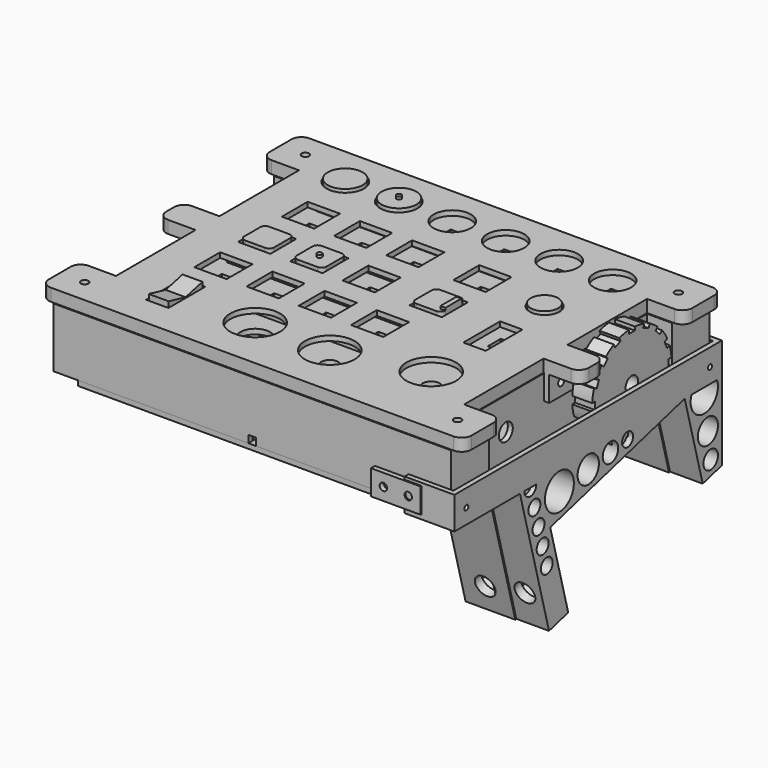
from build123d import *

# Parameters (mm, degrees)
PAD001_DEPTH            = 24
SKETCH004_W             = 136
SKETCH004_H             = 126
POCKET002_DEPTH         = 22
SKETCH005_R             = 3.5
POCKET003_DEPTH         = 150.0009999999
SKETCH006_W             = 3
SKETCH006_H             = 3
POCKET004_DEPTH         = 2
SKETCH002_R             = 3.5
SKETCH002_R_2           = 6
SKETCH002_W             = 6.5
SKETCH002_H             = 6.5
POCKET_DEPTH            = 2
SKETCH_W                = 118
SKETCH_H                = 3
SKETCH_W_2              = 79.5
SKETCH_W_3              = 73.5
SKETCH_W_4              = 3
SKETCH_H_2              = 41.25
SKETCH_H_3              = 20.0000000001
SKETCH_W_5              = 23
SKETCH_H_4              = 23
SKETCH_W_6              = 19
SKETCH_H_5              = 19
PAD_DEPTH               = 2
PAD003_DEPTH            = 5
SKETCH010_W             = 136
SKETCH010_H             = 126
POCKET006_DEPTH         = 3
SKETCH011_R             = 3.5
POCKET007_DEPTH         = 155.001
FILLET_R                = 4
SKETCH012_R             = 1.5
POCKET008_DEPTH         = 5.001
SKETCH008_R             = 10
SKETCH008_R_2           = 6
SKETCH008_R_3           = 7.5
SKETCH008_W             = 13
SKETCH008_H             = 13
SKETCH008_W_2           = 9
SKETCH008_H_2           = 18.5
POCKET009_DEPTH         = 5.001
SKETCH013_W             = 82
SKETCH013_H             = 2
SKETCH013_W_2           = 76
PAD004_DEPTH            = 3
SKETCH073_W             = 2
SKETCH073_H             = 12
PAD041_DEPTH            = 10
SKETCH074_R             = 1.5
POCKET026_DEPTH         = 157.251
SKETCH014_R             = 8.5
PAD005_DEPTH            = 6
SKETCH015_W             = 6.75
SKETCH015_H             = 6.75
POCKET010_DEPTH         = 3
SKETCH016_R             = 8.5
SKETCH016_R_2           = 7
POCKET011_DEPTH         = 5
BODY_PLACEMENT_ANGLE    = 180
SKETCH017_R             = 8.5
PAD006_DEPTH            = 6
SKETCH018_W             = 6.75
SKETCH018_H             = 6.75
POCKET012_DEPTH         = 3
SKETCH019_R             = 8.5
SKETCH019_R_2           = 7
POCKET013_DEPTH         = 5
SKETCH020_R             = 1
PAD007_DEPTH            = 1
BODY003_PLACEMENT_ANGLE = 180
SKETCH021_W             = 15
SKETCH021_H             = 15
PAD008_DEPTH            = 6
SKETCH022_W             = 6.75
SKETCH022_H             = 6.75
POCKET014_DEPTH         = 3
SKETCH023_W             = 15
SKETCH023_H             = 15
SKETCH023_W_2           = 12
SKETCH023_H_2           = 12
POCKET015_DEPTH         = 5
FILLET001_R             = 2
SKETCH027_R             = 1
PAD010_DEPTH            = 1
BODY004_PLACEMENT_ANGLE = 180
SKETCH024_W             = 15
SKETCH024_H             = 15
PAD009_DEPTH            = 6
SKETCH025_W             = 6.75
SKETCH025_H             = 6.75
POCKET016_DEPTH         = 3
SKETCH026_W             = 15
SKETCH026_H             = 15
SKETCH026_W_2           = 12
SKETCH026_H_2           = 12
POCKET017_DEPTH         = 5
FILLET002_R             = 2
BODY005_PLACEMENT_ANGLE = 180
SKETCH059_W             = 8
SKETCH059_H             = 20
PAD040_DEPTH            = 7
SKETCH060_W             = 6.75
SKETCH060_H             = 16.5
POCKET018_DEPTH         = 2.5
SKETCH061_W             = 10
SKETCH061_H             = 20
SKETCH061_W_2           = 8
SKETCH061_H_2           = 17
POCKET019_DEPTH         = 6
POCKET025_DEPTH         = 10
BODY014_PLACEMENT_ANGLE = 180
SKETCH075_R             = 7
PAD042_DEPTH            = 6
SKETCH076_W             = 6.75
SKETCH076_H             = 6.75
POCKET027_DEPTH         = 3
SKETCH077_R             = 7
SKETCH077_R_2           = 5.5
POCKET028_DEPTH         = 5
BODY015_PLACEMENT_ANGLE = 180
SKETCH078_W             = 140
SKETCH078_H             = 130
PAD043_DEPTH            = 2
SKETCH079_W             = 135.5
SKETCH079_H             = 125.5
SKETCH079_W_2           = 131.5
SKETCH079_H_2           = 121.5
PAD044_DEPTH            = 2
SKETCH080_W             = 3
SKETCH080_H             = 3
POCKET029_DEPTH         = 2
SKETCH089_W             = 18
SKETCH089_H             = 4
SKETCH089_W_2           = 2
SKETCH089_H_2           = 2
PAD047_DEPTH            = 10
SKETCH035_R             = 5.0568676201
SKETCH035_R_2           = 3.6582624879
SKETCH035_R_3           = 3
SKETCH035_R_4           = 7.2752079183
SKETCH035_R_5           = 5.3643607627
SKETCH035_R_6           = 3.8947516868
SKETCH035_R_7           = 2.7644933984
PAD026_DEPTH            = 20
POCKET030_DEPTH         = 18
POCKET031_DEPTH         = 6.5
SKETCH054_R             = 4.125
POCKET032_DEPTH         = 35.337896617
SKETCH055_R             = 1
POCKET033_DEPTH         = 2.001
SKETCH056_R             = 1
POCKET034_DEPTH         = 64.7539227097
SKETCH081_R             = 8.231454465
POCKET035_DEPTH         = 18
BODY013_PLACEMENT_ANGLE = 75
SKETCH082_R             = 20
SKETCH082_R_2           = 3.125
PAD045_DEPTH            = 8
SKETCH083_W             = 3
SKETCH083_H             = 3
POCKET036_DEPTH         = 8.001
SKETCH084_R             = 5.0568676201
SKETCH084_R_2           = 3.6582624879
SKETCH084_R_3           = 3
SKETCH084_R_4           = 8.1741874039
SKETCH084_R_5           = 6.0557548425
SKETCH084_R_6           = 4.426494381
SKETCH084_R_7           = 3.1734501729
PAD046_DEPTH            = 20
POCKET037_DEPTH         = 20.001
POCKET038_DEPTH         = 6.5
SKETCH087_R             = 4.125
POCKET039_DEPTH         = 34.8202585268
SKETCH088_R             = 1.5
POCKET040_DEPTH         = 137.001
BODY018_PLACEMENT_ANGLE = 75
SKETCH090_W             = 9
SKETCH090_H             = 9
PAD048_DEPTH            = 17.5
SKETCH091_W             = 4
SKETCH091_H             = 4
POCKET041_DEPTH         = 15.5
SKETCH096_W             = 9
SKETCH096_H             = 9
SKETCH096_W_2           = 6
SKETCH096_H_2           = 6
POCKET044_DEPTH         = 16.5
FILLET005_R             = 2
SKETCH092_W             = 15
SKETCH092_H             = 15
PAD049_DEPTH            = 6
SKETCH093_W             = 6.75
SKETCH093_H             = 6.75
POCKET042_DEPTH         = 3
SKETCH094_W             = 15
SKETCH094_H             = 15
SKETCH094_W_2           = 12
SKETCH094_H_2           = 12
POCKET043_DEPTH         = 5
FILLET004_R             = 2
SKETCH095_W             = 2
SKETCH095_H             = 8
PAD050_DEPTH            = 1
BODY020_PLACEMENT_ANGLE = 180


with BuildPart() as panel:
    # Sketch003 → Pad001 (new body)
    with BuildSketch(Plane.XY):
        Polygon((-80, -65), (80, -65), (80, -46), (69.9999999999, -46), (69.9999999999, 46), (80, 46), (80, 65), (-80, 65), (-80, 46), (-70, 46), (-70, -46), (-80, -46), align=None)
    extrude(amount=PAD001_DEPTH)

    # Sketch004 (on Face13 of Pad001) → Pocket002 (cut)
    with BuildSketch(Plane(origin=(0, 0, 0), x_dir=(1, 0, 0), z_dir=(0, 0, -1))):
        Rectangle(SKETCH004_W, SKETCH004_H)
    extrude(amount=-POCKET002_DEPTH, mode=Mode.SUBTRACT)

    # Sketch005 (on Face8 of Pocket002) → Pocket003 (cut, through all)
    with BuildSketch(Plane.YZ.offset(69.9999999999)):
        with Locations((-25, 11)):
            Circle(SKETCH005_R)
        with Locations((25, 11)):
            Circle(SKETCH005_R)
    extrude(amount=-POCKET003_DEPTH, mode=Mode.SUBTRACT)

    # Sketch006 (on Face14 of Pocket003) → Pocket004 (cut)
    with BuildSketch(Plane.XZ.offset(65)):
        with Locations((0, 1.5)):
            Rectangle(SKETCH006_W, SKETCH006_H)
    extrude(amount=-POCKET004_DEPTH, mode=Mode.SUBTRACT)

    # Sketch002 (on Face5 of Pocket004) → Pocket (cut)
    with BuildSketch(Plane.XY.offset(24)):
        with Locations((48, -35)):
            Circle(SKETCH002_R)
        with Locations((-16, -43.5)):
            Circle(SKETCH002_R_2)
        with Locations((14, -43.5)):
            Circle(SKETCH002_R)
        with Locations((-53.75, 49)):
            Rectangle(SKETCH002_W, SKETCH002_H)
        with Locations((-32.25, 49)):
            Rectangle(SKETCH002_W, SKETCH002_H)
        with Locations((-10.75, 49)):
            Rectangle(SKETCH002_W, SKETCH002_H)
        with Locations((10.75, 49)):
            Rectangle(SKETCH002_W, SKETCH002_H)
        with Locations((32.25, 49)):
            Rectangle(SKETCH002_W, SKETCH002_H)
        with Locations((53.75, 49)):
            Rectangle(SKETCH002_W, SKETCH002_H)
        with Locations((-48, 24.5)):
            Rectangle(SKETCH002_W, SKETCH002_H)
        with Locations((-27, 24.5)):
            Rectangle(SKETCH002_W, SKETCH002_H)
        with Locations((-6, 24.5)):
            Rectangle(SKETCH002_W, SKETCH002_H)
        with Locations((21, 24.5)):
            Rectangle(SKETCH002_W, SKETCH002_H)
        with Locations((-48, 2.5)):
            Rectangle(SKETCH002_W, SKETCH002_H)
        with Locations((-27, 2.5)):
            Rectangle(SKETCH002_W, SKETCH002_H)
        with Locations((-6, 2.5)):
            Rectangle(SKETCH002_W, SKETCH002_H)
        with Locations((21, 2.5)):
            Rectangle(SKETCH002_W, SKETCH002_H)
        with Locations((-48, -19.5)):
            Rectangle(SKETCH002_W, SKETCH002_H)
        with Locations((-27, -19.5)):
            Rectangle(SKETCH002_W, SKETCH002_H)
        with Locations((-6, -19.5)):
            Rectangle(SKETCH002_W, SKETCH002_H)
        with Locations((15, -19.5)):
            Rectangle(SKETCH002_W, SKETCH002_H)
        with Locations((48, 22)):
            Rectangle(SKETCH002_W, SKETCH002_H)
        with Locations((-48, -38.75)):
            Rectangle(SKETCH002_W, SKETCH002_H)
        with Locations((-48, -48.25)):
            Rectangle(SKETCH002_W, SKETCH002_H)
        with Locations((48, 0.75)):
            Rectangle(SKETCH002_W, SKETCH002_H)
        with Locations((48, -8.75)):
            Rectangle(SKETCH002_W, SKETCH002_H)
    extrude(amount=-POCKET_DEPTH, mode=Mode.SUBTRACT)

    # Sketch (on Face119 of Pocket) → Pad (join)
    with BuildSketch(Plane(origin=(0, 0, 22), x_dir=(1, 0, 0), z_dir=(0, 0, -1))):
        with Locations((0, -49)):
            Rectangle(SKETCH_W, SKETCH_H)
        with Locations((-13.5, -24.5)):
            Rectangle(SKETCH_W_2, SKETCH_H)
        with Locations((-16.5, 19.5)):
            Rectangle(SKETCH_W_3, SKETCH_H)
        with Locations((-13.5, -2.5)):
            Rectangle(SKETCH_W_2, SKETCH_H)
        with Locations((48, -6.625)):
            Rectangle(SKETCH_W_4, SKETCH_H_2)
        with Locations((-48, 43.5)):
            Rectangle(SKETCH_W_4, SKETCH_H_3)
        with Locations((-17.5, 45)):
            Rectangle(SKETCH_W_5, SKETCH_H_4)
        with Locations((-17.5, 45)):
            Rectangle(SKETCH_W_6, SKETCH_H_5, mode=Mode.SUBTRACT)
    extrude(amount=PAD_DEPTH)


with BuildPart() as cover:
    # Sketch009 → Pad003 (new body)
    with BuildSketch(Plane.XY):
        Polygon((-85, -65), (85, -65), (85, -46), (70, -46), (70, -6), (85, -6), (85, 6), (70, 6), (70, 46), (85, 46), (85, 65), (-85, 65), (-85, 46), (-70, 46), (-70, 6), (-85, 6), (-85, -6), (-70, -6), (-70, -46), (-85, -46), align=None)
    extrude(amount=PAD003_DEPTH)

    # Sketch010 (on Face21 of Pad003) → Pocket006 (cut)
    with BuildSketch(Plane(origin=(0, 0, 0), x_dir=(1, 0, 0), z_dir=(0, 0, -1))):
        Rectangle(SKETCH010_W, SKETCH010_H)
    extrude(amount=-POCKET006_DEPTH, mode=Mode.SUBTRACT)

    # Sketch011 (on Face8 of Pocket006) → Pocket007 (cut, through all)
    with BuildSketch(Plane.YZ.offset(70)):
        with Locations((-25, -13)):
            Circle(SKETCH011_R)
        with Locations((25, -13)):
            Circle(SKETCH011_R)
    extrude(amount=-POCKET007_DEPTH, mode=Mode.SUBTRACT)

    # Fillet
    fillet_edges = [cover.edges().sort_by_distance(p)[0] for p in [
        (-85, -65, 2.5),
        (85, -65, 2.5),
        (85, 65, 2.5),
        (-85, 65, 2.5),
        (85, -6, 2.5),
        (85, 6, 2.5),
        (85, -46, 2.5),
        (85, 46, 2.5),
        (-85, 46, 2.5),
        (-85, 6, 2.5),
        (-85, -6, 2.5),
        (-85, -46, 2.5),
    ]]
    fillet(fillet_edges, radius=FILLET_R)

    # Sketch012 (on Face5 of Fillet) → Pocket008 (cut, through all)
    with BuildSketch(Plane.XY.offset(5)):
        with Locations((-75, 55.5)):
            Circle(SKETCH012_R)
        with Locations((74.9999999999, 55.5)):
            Circle(SKETCH012_R)
        with Locations((-75, -55.5)):
            Circle(SKETCH012_R)
        with Locations((75, -55.5)):
            Circle(SKETCH012_R)
    extrude(amount=-POCKET008_DEPTH, mode=Mode.SUBTRACT)

    # Sketch008 (on Face5 of Pocket008) → Pocket009 (cut, through all)
    with BuildSketch(Plane.XY.offset(5)):
        with Locations((48, -35)):
            Circle(SKETCH008_R)
        with Locations((-16, -43.5)):
            Circle(SKETCH008_R)
        with Locations((14, -43.5)):
            Circle(SKETCH008_R)
        with Locations((48, 22)):
            Circle(SKETCH008_R_2)
        with Locations((-53.75, 49)):
            Circle(SKETCH008_R_3)
        with Locations((-32.25, 49)):
            Circle(SKETCH008_R_3)
        with Locations((-10.75, 49)):
            Circle(SKETCH008_R_3)
        with Locations((10.75, 49)):
            Circle(SKETCH008_R_3)
        with Locations((32.25, 49)):
            Circle(SKETCH008_R_3)
        with Locations((53.75, 49)):
            Circle(SKETCH008_R_3)
        with Locations((-48, 24.5)):
            Rectangle(SKETCH008_W, SKETCH008_H)
        with Locations((-27, 24.5)):
            Rectangle(SKETCH008_W, SKETCH008_H)
        with Locations((-6, 24.5)):
            Rectangle(SKETCH008_W, SKETCH008_H)
        with Locations((21, 24.5)):
            Rectangle(SKETCH008_W, SKETCH008_H)
        with Locations((-48, 2.5)):
            Rectangle(SKETCH008_W, SKETCH008_H)
        with Locations((-27, 2.5)):
            Rectangle(SKETCH008_W, SKETCH008_H)
        with Locations((-6, 2.5)):
            Rectangle(SKETCH008_W, SKETCH008_H)
        with Locations((21, 2.5)):
            Rectangle(SKETCH008_W, SKETCH008_H)
        with Locations((-48, -19.5)):
            Rectangle(SKETCH008_W, SKETCH008_H)
        with Locations((-27, -19.5)):
            Rectangle(SKETCH008_W, SKETCH008_H)
        with Locations((-6, -19.5)):
            Rectangle(SKETCH008_W, SKETCH008_H)
        with Locations((15, -19.5)):
            Rectangle(SKETCH008_W, SKETCH008_H)
        with Locations((48, -4)):
            Rectangle(SKETCH008_W_2, SKETCH008_H_2)
        with Locations((-48, -43.5)):
            Rectangle(SKETCH008_W_2, SKETCH008_H_2)
    extrude(amount=-POCKET009_DEPTH, mode=Mode.SUBTRACT)

    # Sketch013 (on Face109 of Pocket009) → Pad004 (join)
    with BuildSketch(Plane(origin=(0, 0, 3), x_dir=(1, 0, 0), z_dir=(0, 0, -1))):
        with Locations((-13.5, 8.5)):
            Rectangle(SKETCH013_W, SKETCH013_H)
        with Locations((-13.5, -13.5)):
            Rectangle(SKETCH013_W, SKETCH013_H)
        with Locations((-13.5, -36.25)):
            Rectangle(SKETCH013_W, SKETCH013_H)
        with Locations((-16.5, 30.125)):
            Rectangle(SKETCH013_W_2, SKETCH013_H)
    extrude(amount=PAD004_DEPTH)

    # Sketch073 (on Face2 of Pad004) → Pad041 (join)
    with BuildSketch(Plane(origin=(0, 0, 0), x_dir=(1, 0, 0), z_dir=(0, 0, -1))):
        with Locations((-71.25, 0)):
            Rectangle(SKETCH073_W, SKETCH073_H)
        with Locations((71.25, 0)):
            Rectangle(SKETCH073_W, SKETCH073_H)
    extrude(amount=PAD041_DEPTH)

    # Sketch074 (on Face120 of Pad041) → Pocket026 (cut, through all)
    with BuildSketch(Plane.YZ.offset(72.25)):
        with Locations((0, -5)):
            Circle(SKETCH074_R)
    extrude(amount=-POCKET026_DEPTH, mode=Mode.SUBTRACT)


with BuildPart() as cover_1:
    # Body002 placement: moved
    add(cover.part.moved(Location((0, 0, 24.28))))


with BuildPart() as button_round:
    # Sketch014 → Pad005 (new body)
    with BuildSketch(Plane.XY):
        Circle(SKETCH014_R)
    extrude(amount=PAD005_DEPTH)

    # Sketch015 (on Face3 of Pad005) → Pocket010 (cut)
    with BuildSketch(Plane.XY.offset(6)):
        Rectangle(SKETCH015_W, SKETCH015_H)
    extrude(amount=-POCKET010_DEPTH, mode=Mode.SUBTRACT)

    # Sketch016 (on Face2 of Pocket010) → Pocket011 (cut)
    with BuildSketch(Plane(origin=(0, 0, 0), x_dir=(1, 0, 0), z_dir=(0, 0, -1))):
        Circle(SKETCH016_R)
        Circle(SKETCH016_R_2, mode=Mode.SUBTRACT)
    extrude(amount=-POCKET011_DEPTH, mode=Mode.SUBTRACT)


with BuildPart() as button_round_1:
    # Body placement: moved
    add(button_round.part.moved(Location((-53.82, 49.02, 30.34))).rotate(Axis((-53.82, 49.02, 30.34), (0, 1, 0)), BODY_PLACEMENT_ANGLE))


with BuildPart() as button_round_guide:
    # Sketch017 → Pad006 (new body)
    with BuildSketch(Plane.XY):
        Circle(SKETCH017_R)
    extrude(amount=PAD006_DEPTH)

    # Sketch018 (on Face3 of Pad006) → Pocket012 (cut)
    with BuildSketch(Plane.XY.offset(6)):
        Rectangle(SKETCH018_W, SKETCH018_H)
    extrude(amount=-POCKET012_DEPTH, mode=Mode.SUBTRACT)

    # Sketch019 (on Face2 of Pocket012) → Pocket013 (cut)
    with BuildSketch(Plane(origin=(0, 0, 0), x_dir=(1, 0, 0), z_dir=(0, 0, -1))):
        Circle(SKETCH019_R)
        Circle(SKETCH019_R_2, mode=Mode.SUBTRACT)
    extrude(amount=-POCKET013_DEPTH, mode=Mode.SUBTRACT)

    # Sketch020 (on Face9 of Pocket013) → Pad007 (join)
    with BuildSketch(Plane(origin=(0, 0, 0), x_dir=(1, 0, 0), z_dir=(0, 0, -1))):
        Circle(SKETCH020_R)
    extrude(amount=PAD007_DEPTH)


with BuildPart() as button_round_guide_1:
    # Body003 placement: moved
    add(button_round_guide.part.moved(Location((-32.1, 48.92, 30.58))).rotate(Axis((-32.1, 48.92, 30.58), (1, 0, 0)), BODY003_PLACEMENT_ANGLE))


with BuildPart() as button_square_guide:
    # Sketch021 → Pad008 (new body)
    with BuildSketch(Plane.XY):
        Rectangle(SKETCH021_W, SKETCH021_H)
    extrude(amount=PAD008_DEPTH)

    # Sketch022 (on Face6 of Pad008) → Pocket014 (cut)
    with BuildSketch(Plane.XY.offset(6)):
        Rectangle(SKETCH022_W, SKETCH022_H)
    extrude(amount=-POCKET014_DEPTH, mode=Mode.SUBTRACT)

    # Sketch023 (on Face4 of Pocket014) → Pocket015 (cut)
    with BuildSketch(Plane(origin=(0, 0, 0), x_dir=(1, 0, 0), z_dir=(0, 0, -1))):
        Rectangle(SKETCH023_W, SKETCH023_H)
        Rectangle(SKETCH023_W_2, SKETCH023_H_2, mode=Mode.SUBTRACT)
    extrude(amount=-POCKET015_DEPTH, mode=Mode.SUBTRACT)

    # Fillet001
    fillet001_edges = [button_square_guide.edges().sort_by_distance(p)[0] for p in [
        (-6, 6, 2.5),
        (-6, -6, 2.5),
        (6, 6, 2.5),
        (6, -6, 2.5),
    ]]
    fillet(fillet001_edges, radius=FILLET001_R)

    # Sketch027 (on Face14 of Fillet001) → Pad010 (join)
    with BuildSketch(Plane(origin=(0, 0, 0), x_dir=(1, 0, 0), z_dir=(0, 0, -1))):
        Circle(SKETCH027_R)
    extrude(amount=PAD010_DEPTH)


with BuildPart() as button_square_guide_1:
    # Body004 placement: moved
    add(button_square_guide.part.moved(Location((-26.92, 2.51, 30.46))).rotate(Axis((-26.92, 2.51, 30.46), (1, 0, 0)), BODY004_PLACEMENT_ANGLE))


with BuildPart() as button_square:
    # Sketch024 → Pad009 (new body)
    with BuildSketch(Plane.XY):
        Rectangle(SKETCH024_W, SKETCH024_H)
    extrude(amount=PAD009_DEPTH)

    # Sketch025 (on Face6 of Pad009) → Pocket016 (cut)
    with BuildSketch(Plane.XY.offset(6)):
        Rectangle(SKETCH025_W, SKETCH025_H)
    extrude(amount=-POCKET016_DEPTH, mode=Mode.SUBTRACT)

    # Sketch026 (on Face4 of Pocket016) → Pocket017 (cut)
    with BuildSketch(Plane(origin=(0, 0, 0), x_dir=(1, 0, 0), z_dir=(0, 0, -1))):
        Rectangle(SKETCH026_W, SKETCH026_H)
        Rectangle(SKETCH026_W_2, SKETCH026_H_2, mode=Mode.SUBTRACT)
    extrude(amount=-POCKET017_DEPTH, mode=Mode.SUBTRACT)

    # Fillet002
    fillet002_edges = [button_square.edges().sort_by_distance(p)[0] for p in [
        (-6, 6, 2.5),
        (-6, -6, 2.5),
        (6, 6, 2.5),
        (6, -6, 2.5),
    ]]
    fillet(fillet002_edges, radius=FILLET002_R)


with BuildPart() as button_square_1:
    # Body005 placement: moved
    add(button_square.part.moved(Location((-47.97, 2.48, 30.42))).rotate(Axis((-47.97, 2.48, 30.42), (1, 0, 0)), BODY005_PLACEMENT_ANGLE))


with BuildPart() as button_rocker:
    # Sketch059 → Pad040 (new body)
    with BuildSketch(Plane.XY):
        Rectangle(SKETCH059_W, SKETCH059_H)
    extrude(amount=PAD040_DEPTH)

    # Sketch060 (on Face6 of Pad040) → Pocket018 (cut)
    with BuildSketch(Plane.XY.offset(7)):
        Rectangle(SKETCH060_W, SKETCH060_H)
    extrude(amount=-POCKET018_DEPTH, mode=Mode.SUBTRACT)

    # Sketch061 (on Face4 of Pocket018) → Pocket019 (cut)
    with BuildSketch(Plane(origin=(0, 0, 0), x_dir=(1, 0, 0), z_dir=(0, 0, -1))):
        Rectangle(SKETCH061_W, SKETCH061_H)
        Rectangle(SKETCH061_W_2, SKETCH061_H_2, mode=Mode.SUBTRACT)
    extrude(amount=-POCKET019_DEPTH, mode=Mode.SUBTRACT)

    # Sketch072 (on Face14 of Pocket019) → Pocket025 (cut)
    with BuildSketch(Plane(origin=(-4, 0, 0), x_dir=(0, -1, 0), z_dir=(-1, 0, 0))):
        Polygon((-8.5, 0), (0, 2), (8.5, 0), align=None)
    extrude(amount=-POCKET025_DEPTH, mode=Mode.SUBTRACT)


with BuildPart() as button_rocker_1:
    # Body014 placement: moved
    add(button_rocker.part.moved(Location((-47.96, -43.57, 31.22))).rotate(Axis((-47.96, -43.57, 31.22), (0, 1, 0)), BODY014_PLACEMENT_ANGLE))


with BuildPart() as button_round_small:
    # Sketch075 → Pad042 (new body)
    with BuildSketch(Plane.XY):
        Circle(SKETCH075_R)
    extrude(amount=PAD042_DEPTH)

    # Sketch076 (on Face3 of Pad042) → Pocket027 (cut)
    with BuildSketch(Plane.XY.offset(6)):
        Rectangle(SKETCH076_W, SKETCH076_H)
    extrude(amount=-POCKET027_DEPTH, mode=Mode.SUBTRACT)

    # Sketch077 (on Face2 of Pocket027) → Pocket028 (cut)
    with BuildSketch(Plane(origin=(0, 0, 0), x_dir=(1, 0, 0), z_dir=(0, 0, -1))):
        Circle(SKETCH077_R)
        Circle(SKETCH077_R_2, mode=Mode.SUBTRACT)
    extrude(amount=-POCKET028_DEPTH, mode=Mode.SUBTRACT)


with BuildPart() as button_round_small_1:
    # Body015 placement: moved
    add(button_round_small.part.moved(Location((47.93, 21.99, 30.34))).rotate(Axis((47.93, 21.99, 30.34), (0, 1, 0)), BODY015_PLACEMENT_ANGLE))


with BuildPart() as cap:
    # Sketch078 → Pad043 (new body)
    with BuildSketch(Plane.XY):
        Rectangle(SKETCH078_W, SKETCH078_H)
    extrude(amount=PAD043_DEPTH)

    # Sketch079 (on Face6 of Pad043) → Pad044 (join)
    with BuildSketch(Plane.XY.offset(2)):
        Rectangle(SKETCH079_W, SKETCH079_H)
        Rectangle(SKETCH079_W_2, SKETCH079_H_2, mode=Mode.SUBTRACT)
    extrude(amount=PAD044_DEPTH)

    # Sketch080 (on Face8 of Pad044) → Pocket029 (cut)
    with BuildSketch(Plane.XZ.offset(62.75)):
        with Locations((0, 3.5)):
            Rectangle(SKETCH080_W, SKETCH080_H)
    extrude(amount=-POCKET029_DEPTH, mode=Mode.SUBTRACT)

    # Sketch089 (on Face16 of Pocket029) → Pad047 (join)
    with BuildSketch(Plane.XY.offset(2)):
        with Locations((-16, -37)):
            Rectangle(SKETCH089_W, SKETCH089_H)
        with Locations((-23, -37)):
            Rectangle(SKETCH089_W_2, SKETCH089_H_2, mode=Mode.SUBTRACT)
        with Locations((-9, -37)):
            Rectangle(SKETCH089_W_2, SKETCH089_H_2, mode=Mode.SUBTRACT)
        with Locations((-16, -51)):
            Rectangle(SKETCH089_W, SKETCH089_H)
        with Locations((-23, -51)):
            Rectangle(SKETCH089_W_2, SKETCH089_H_2, mode=Mode.SUBTRACT)
        with Locations((-9, -51)):
            Rectangle(SKETCH089_W_2, SKETCH089_H_2, mode=Mode.SUBTRACT)
    extrude(amount=PAD047_DEPTH)


with BuildPart() as cap_1:
    # Body016 placement: moved
    add(cap.part.moved(Location((0, 0, -1.98))))


with BuildPart() as mount:
    # Sketch035 → Pad026 (new body)
    with BuildSketch(Plane.YZ):
        Polygon((-42.712480308, 133.2816712222), (0, 121.836896617), (0, 111.836896617), (-35, 111.836896617), (-35, 41.836896617), (0, 41.836896617), (0, 31.836896617), (-56.4359353945, 31.836896617), (-64.9666061325, 0), (-77.5236418743, 3.3646475863), align=None)
        with Locations((-16.2817231725, 118.893764237)):
            Circle(SKETCH035_R, mode=Mode.SUBTRACT)
        with Locations((-5.6582624879, 117.4951591049)):
            Circle(SKETCH035_R_2, mode=Mode.SUBTRACT)
        with Locations((-47, 36.836896617)):
            Circle(SKETCH035_R_3, mode=Mode.SUBTRACT)
        with Locations((-39, 36.836896617)):
            Circle(SKETCH035_R_3, mode=Mode.SUBTRACT)
        with Locations((-31, 36.836896617)):
            Circle(SKETCH035_R_3, mode=Mode.SUBTRACT)
        with Locations((-23, 36.836896617)):
            Circle(SKETCH035_R_3, mode=Mode.SUBTRACT)
        with Locations((-44.2752079183, 49.1121045353)):
            Circle(SKETCH035_R_4, mode=Mode.SUBTRACT)
        with Locations((-42.3643607627, 63.6264296768)):
            Circle(SKETCH035_R_5, mode=Mode.SUBTRACT)
        with Locations((-40.8947516868, 74.7892188584)):
            Circle(SKETCH035_R_6, mode=Mode.SUBTRACT)
        with Locations((-39.7644933984, 83.3743829016)):
            Circle(SKETCH035_R_7, mode=Mode.SUBTRACT)
        with BuildLine():
            ThreePointArc((-34.116125398, 115.1355615391), (-23.4536716937, 118.9328065805), (-30.7890049476, 127.552544103))
            Line((-30.7890049476, 127.552544103), (-34.116125398, 115.1355615391))
        make_face(mode=Mode.SUBTRACT)
        with BuildLine():
            ThreePointArc((-55.8658306273, 33.9645565736), (-52.1022225211, 36.0604394816), (-54.313661297, 39.7573313765))
            Line((-54.313661297, 39.7573313765), (-55.8658306273, 33.9645565736))
        make_face(mode=Mode.SUBTRACT)
    extrude(amount=PAD026_DEPTH)

    # Sketch036 (on Face25 of Pad026) → Pocket030 (cut)
    with BuildSketch(Plane(origin=(0, 0, 0), x_dir=(0, 1, 0), z_dir=(-1, 0, 0))):
        Polygon((-77.0060037841, -5.2964992389), (-43.2301183982, -131.3498195696), (-32.604934309, -128.5028100735), (-66.3808196949, -2.4494897428), align=None)
    extrude(amount=-POCKET030_DEPTH, mode=Mode.SUBTRACT)

    # Sketch053 (on Face12 of Pocket030) → Pocket031 (cut)
    with BuildSketch(Plane(origin=(0, 0, 41.836896617), x_dir=(0, -1, 0), z_dir=(0, 0, 1))):
        Polygon((20.5, 13), (16.75, 19.4951905284), (9.25, 19.4951905284), (5.5, 13), (9.25, 6.5048094716), (16.75, 6.5048094716), align=None)
    extrude(amount=-POCKET031_DEPTH, mode=Mode.SUBTRACT)

    # Sketch054 (on Face37 of Pocket031) → Pocket032 (cut, through all)
    with BuildSketch(Plane(origin=(0, 0, 35.336896617), x_dir=(0, -1, 0), z_dir=(0, 0, 1))):
        with Locations((13, 13)):
            Circle(SKETCH054_R)
    extrude(amount=-POCKET032_DEPTH, mode=Mode.SUBTRACT)

    # Sketch055 (on Face7 of Pocket032) → Pocket033 (cut, through all)
    with BuildSketch(Plane(origin=(18, 0, 0), x_dir=(0, 1, 0), z_dir=(-1, 0, 0))):
        with Locations((-37.5039137946, -125.6743829488)):
            Circle(SKETCH055_R)
        with Locations((-69.2092468196, -7.3484692283)):
            Circle(SKETCH055_R)
    extrude(amount=-POCKET033_DEPTH, mode=Mode.SUBTRACT)

    # Sketch056 (on Face16 of Pocket033) → Pocket034 (cut, through all)
    with BuildSketch(Plane(origin=(0, -62.546520373, 16.7592896233), x_dir=(0, -0.2588190451, -0.9659258263), z_dir=(0, -0.9659258263, 0.2588190451))):
        with Locations((10.8145949628, 4)):
            Circle(SKETCH056_R)
    extrude(amount=-POCKET034_DEPTH, mode=Mode.SUBTRACT)

    # Sketch081 (on Face4 of Pocket034) → Pocket035 (cut)
    with BuildSketch(Plane(origin=(0, 0, 0), x_dir=(0, 1, 0), z_dir=(-1, 0, 0))):
        with Locations((-45.231454465, -90.216209691)):
            Circle(SKETCH081_R)
        with Locations((-58.1724067201, -41.9199183766)):
            Circle(SKETCH081_R)
    extrude(amount=-POCKET035_DEPTH, mode=Mode.SUBTRACT)


with BuildPart() as mount_1:
    # Body013 placement: moved
    add(mount.part.moved(Location((63.14, -50.4653290291, -65.5447722247))).rotate(Axis((63.14, -50.4653290291, -65.5447722247), (-1, 0, 0)), BODY013_PLACEMENT_ANGLE))


with BuildPart() as button_rotary:
    # Sketch082 → Pad045 (new body)
    with BuildSketch(Plane.YZ):
        Circle(SKETCH082_R)
        Circle(SKETCH082_R_2, mode=Mode.SUBTRACT)
    extrude(amount=PAD045_DEPTH)

    # Sketch083 (on Face3 of Pad045) → Pocket036 (cut, through all)
    with BuildSketch(Plane(origin=(0, 0, 0), x_dir=(0, 1, 0), z_dir=(-1, 0, 0))):
        with Locations((0, 20)):
            Rectangle(SKETCH083_W, SKETCH083_H)
        with Locations((0, -20)):
            Rectangle(SKETCH083_W, SKETCH083_H)
        with Locations((-20, 0)):
            Rectangle(SKETCH083_W, SKETCH083_H)
        with Locations((20, 0)):
            Rectangle(SKETCH083_W, SKETCH083_H)
        Polygon((-17.6657965, -5.6938242), (-16.5177462029, -8.4654627975), (-19.2893848004, -9.6135130946), (-20.4374350975, -6.8418744971), align=None)
        Polygon((17.6657965, 5.6938242), (16.5177462029, 8.4654627975), (19.2893848004, 9.6135130946), (20.4374350975, 6.8418744971), align=None)
        Polygon((-8.4654627975, -16.5177462029), (-5.6938242, -17.6657965), (-6.8418744971, -20.4374350975), (-9.6135130946, -19.2893848004), align=None)
        Polygon((8.4654627975, 16.5177462029), (5.6938242, 17.6657965), (6.8418744971, 20.4374350975), (9.6135130946, 19.2893848004), align=None)
        Polygon((-16.5177462029, 8.4654627975), (-17.6657965, 5.6938242), (-20.4374350975, 6.8418744971), (-19.2893848004, 9.6135130946), align=None)
        Polygon((16.5177462029, -8.4654627975), (17.6657965, -5.6938242), (20.4374350975, -6.8418744971), (19.2893848004, -9.6135130946), align=None)
        Polygon((-5.6938242, 17.6657965), (-8.4654627975, 16.5177462029), (-9.6135130946, 19.2893848004), (-6.8418744971, 20.4374350975), align=None)
        Polygon((5.6938242, -17.6657965), (8.4654627975, -16.5177462029), (9.6135130946, -19.2893848004), (6.8418744971, -20.4374350975), align=None)
        Polygon((-12.0208152802, 14.1421356237), (-14.1421356237, 12.0208152802), (-16.2634559673, 14.1421356237), (-14.1421356237, 16.2634559673), align=None)
        Polygon((12.0208152802, -14.1421356237), (14.1421356237, -12.0208152802), (16.2634559673, -14.1421356237), (14.1421356237, -16.2634559673), align=None)
        Polygon((14.1421356237, 12.0208152802), (12.0208152802, 14.1421356237), (14.1421356237, 16.2634559673), (16.2634559673, 14.1421356237), align=None)
        Polygon((-14.1421356237, -12.0208152802), (-12.0208152802, -14.1421356237), (-14.1421356237, -16.2634559673), (-16.2634559673, -14.1421356237), align=None)
    extrude(amount=-POCKET036_DEPTH, mode=Mode.SUBTRACT)


with BuildPart() as button_rotary_1:
    # Body017 placement: moved
    add(button_rotary.part.moved(Location((72.64, 25.04, 10.93))))


with BuildPart() as mount_center:
    # Sketch084 → Pad046 (new body)
    with BuildSketch(Plane.YZ):
        Polygon((-41.7465544817, 132.5052140869), (0, 121.3192585268), (0, 111.3192585268), (-35, 111.3192585268), (-35, 41.3192585268), (0, 41.3192585268), (0, 31.3192585268), (-58.5064877553, 31.3192585268), (-66.8984577851, 0), (-76.557716048, 2.588190451), align=None)
        with Locations((-16.2817231725, 118.3761261468)):
            Circle(SKETCH084_R, mode=Mode.SUBTRACT)
        with Locations((-5.6582624879, 116.9775210147)):
            Circle(SKETCH084_R_2, mode=Mode.SUBTRACT)
        with Locations((-47, 36.3192585268)):
            Circle(SKETCH084_R_3, mode=Mode.SUBTRACT)
        with Locations((-39, 36.3192585268)):
            Circle(SKETCH084_R_3, mode=Mode.SUBTRACT)
        with Locations((-31, 36.3192585268)):
            Circle(SKETCH084_R_3, mode=Mode.SUBTRACT)
        with Locations((-23, 36.3192585268)):
            Circle(SKETCH084_R_3, mode=Mode.SUBTRACT)
        with Locations((-45.1741874039, 49.4934459306)):
            Circle(SKETCH084_R_4, mode=Mode.SUBTRACT)
        with Locations((-43.0557548425, 65.5845387712)):
            Circle(SKETCH084_R_5, mode=Mode.SUBTRACT)
        with Locations((-41.426494381, 77.9600006223)):
            Circle(SKETCH084_R_6, mode=Mode.SUBTRACT)
        with Locations((-40.1734501729, 87.4778163197)):
            Circle(SKETCH084_R_7, mode=Mode.SUBTRACT)
        with BuildLine():
            ThreePointArc((-35.7428841585, 116.2741837133), (-23.4536716937, 118.4151684903), (-33.0259494922, 126.4139219288))
            Line((-33.0259494922, 126.4139219288), (-35.7428841585, 116.2741837133))
        make_face(mode=Mode.SUBTRACT)
        with BuildLine():
            ThreePointArc((-57.5778912045, 34.7848280338), (-52.1022225211, 35.5428013914), (-56.4653040248, 38.9370599163))
            Line((-56.4653040248, 38.9370599163), (-57.5778912045, 34.7848280338))
        make_face(mode=Mode.SUBTRACT)
    extrude(amount=PAD046_DEPTH)

    # Sketch085 (on Face25 of Pad046) → Pocket037 (cut, through all)
    with BuildSketch(Plane(origin=(0, 0, 0), x_dir=(0, 1, 0), z_dir=(-1, 0, 0))):
        Polygon((-76.0400779578, -4.5200421036), (-42.2641925719, -130.5733624343), (-34.5367859616, -128.5028100735), (-68.3126713475, -2.4494897428), align=None)
    extrude(amount=-POCKET037_DEPTH, mode=Mode.SUBTRACT)

    # Sketch086 (on Face9 of Pocket037) → Pocket038 (cut)
    with BuildSketch(Plane(origin=(0, 0, 41.3192585268), x_dir=(0, -1, 0), z_dir=(0, 0, 1))):
        Polygon((17.5, 10), (13.75, 16.4951905284), (6.25, 16.4951905284), (2.5, 10), (6.25, 3.5048094716), (13.75, 3.5048094716), align=None)
    extrude(amount=-POCKET038_DEPTH, mode=Mode.SUBTRACT)

    # Sketch087 (on Face37 of Pocket038) → Pocket039 (cut, through all)
    with BuildSketch(Plane(origin=(0, 0, 34.8192585268), x_dir=(0, -1, 0), z_dir=(0, 0, 1))):
        with Locations((10, 10)):
            Circle(SKETCH087_R)
    extrude(amount=-POCKET039_DEPTH, mode=Mode.SUBTRACT)

    # Sketch088 (on Face1 of Pocket039) → Pocket040 (cut, through all)
    with BuildSketch(Plane(origin=(0, 30.3298146317, 113.1924091896), x_dir=(0, -0.9659258263, 0.2588190451), z_dir=(0, 0.2588190451, 0.9659258263))):
        with Locations((69.6189481135, 15)):
            Circle(SKETCH088_R)
        with Locations((69.6189481135, 5)):
            Circle(SKETCH088_R)
    extrude(amount=-POCKET040_DEPTH, mode=Mode.SUBTRACT)


with BuildPart() as mount_center_1:
    # Body018 placement: moved
    add(mount_center.part.moved(Location((49.98, -50.4653290291, -65.5447722247))).rotate(Axis((49.98, -50.4653290291, -65.5447722247), (-1, 0, 0)), BODY018_PLACEMENT_ANGLE))


with BuildPart() as stick:
    # Sketch090 → Pad048 (new body)
    with BuildSketch(Plane.XY):
        Rectangle(SKETCH090_W, SKETCH090_H)
    extrude(amount=PAD048_DEPTH)

    # Sketch091 (on Face5 of Pad048) → Pocket041 (cut)
    with BuildSketch(Plane(origin=(0, 0, 0), x_dir=(1, 0, 0), z_dir=(0, 0, -1))):
        Rectangle(SKETCH091_W, SKETCH091_H)
    extrude(amount=-POCKET041_DEPTH, mode=Mode.SUBTRACT)

    # Sketch096 (on Face5 of Pocket041) → Pocket044 (cut)
    with BuildSketch(Plane.XY.offset(17.5)):
        Rectangle(SKETCH096_W, SKETCH096_H)
        Rectangle(SKETCH096_W_2, SKETCH096_H_2, mode=Mode.SUBTRACT)
    extrude(amount=-POCKET044_DEPTH, mode=Mode.SUBTRACT)

    # Fillet005
    fillet005_edges = [stick.edges().sort_by_distance(p)[0] for p in [
        (-3, 3, 9.25),
        (3, 3, 9.25),
        (3, -3, 9.25),
        (-3, -3, 9.25),
        (4.5, -4.5, 0.5),
        (4.5, 4.5, 0.5),
        (-4.5, 4.5, 0.5),
        (-4.5, -4.5, 0.5),
    ]]
    fillet(fillet005_edges, radius=FILLET005_R)


with BuildPart() as button_square_edge:
    # Sketch092 → Pad049 (new body)
    with BuildSketch(Plane.XY):
        Rectangle(SKETCH092_W, SKETCH092_H)
    extrude(amount=PAD049_DEPTH)

    # Sketch093 (on Face6 of Pad049) → Pocket042 (cut)
    with BuildSketch(Plane.XY.offset(6)):
        Rectangle(SKETCH093_W, SKETCH093_H)
    extrude(amount=-POCKET042_DEPTH, mode=Mode.SUBTRACT)

    # Sketch094 (on Face4 of Pocket042) → Pocket043 (cut)
    with BuildSketch(Plane(origin=(0, 0, 0), x_dir=(1, 0, 0), z_dir=(0, 0, -1))):
        Rectangle(SKETCH094_W, SKETCH094_H)
        Rectangle(SKETCH094_W_2, SKETCH094_H_2, mode=Mode.SUBTRACT)
    extrude(amount=-POCKET043_DEPTH, mode=Mode.SUBTRACT)

    # Fillet004
    fillet004_edges = [button_square_edge.edges().sort_by_distance(p)[0] for p in [
        (-6, 6, 2.5),
        (-6, -6, 2.5),
        (6, 6, 2.5),
        (6, -6, 2.5),
    ]]
    fillet(fillet004_edges, radius=FILLET004_R)

    # Sketch095 (on Face14 of Fillet004) → Pad050 (join)
    with BuildSketch(Plane(origin=(0, 0, 0), x_dir=(1, 0, 0), z_dir=(0, 0, -1))):
        with Locations((5, 0)):
            Rectangle(SKETCH095_W, SKETCH095_H)
    extrude(amount=PAD050_DEPTH)


with BuildPart() as button_square_edge_1:
    # Body020 placement: moved
    add(button_square_edge.part.moved(Location((20.9, 2.48, 30.42))).rotate(Axis((20.9, 2.48, 30.42), (1, 0, 0)), BODY020_PLACEMENT_ANGLE))


solid = Compound([panel.part, cover_1.part, button_round_1.part, button_round_guide_1.part, button_square_guide_1.part, button_square_1.part, button_rocker_1.part, button_round_small_1.part, cap_1.part, mount_1.part, button_rotary_1.part, mount_center_1.part, stick.part, button_square_edge_1.part])
